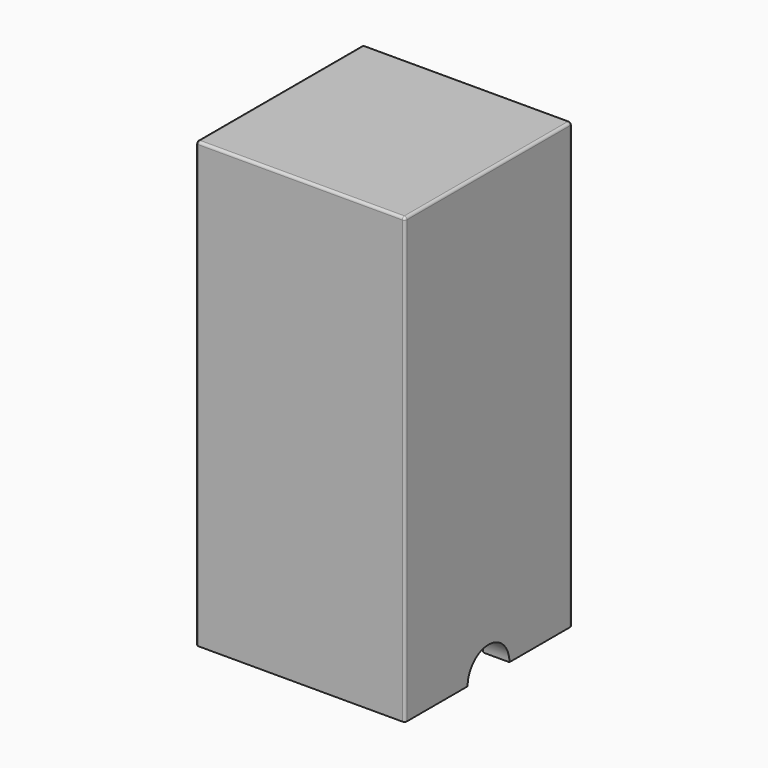
from build123d import *

# Parameters (mm, degrees)
F0_W     = 101.6
F0_H     = 101.6
F1_DEPTH = 215.9
F2_W     = 76.2
F2_H     = 76.2
F3_DEPTH = 162.56
F4_R     = 1.27
F5_R     = 12.7
F6_DEPTH = 101.601


with BuildPart() as f1:
    # F0 (on Top) → F1 (new body)
    with BuildSketch(Plane.XY):
        Rectangle(F0_W, F0_H)
    extrude(amount=F1_DEPTH)

    # F2 (on face) → F3 (cut)
    with BuildSketch(Plane(origin=(0, 0, 0), x_dir=(1, 0, 0), z_dir=(0, 0, -1))):
        Rectangle(F2_W, F2_H)
    extrude(amount=-F3_DEPTH, mode=Mode.SUBTRACT)

    # F4
    f4_edges = [f1.edges().sort_by_distance(p)[0] for p in [
        (50.8, -50.8, 107.95),
        (50.8, 0, 215.9),
        (50.8, 50.8, 107.95),
        (-50.8, -50.8, 107.95),
        (0, -50.8, 215.9),
        (0, 50.8, 215.9),
        (-50.8, 50.8, 107.95),
        (-50.8, 0, 215.9),
    ]]
    fillet(f4_edges, radius=F4_R)

    # F5 (on face) → F6 (cut, through all)
    with BuildSketch(Plane.YZ.offset(50.8)):
        Circle(F5_R)
    extrude(amount=-F6_DEPTH, mode=Mode.SUBTRACT)


solid = f1.part
